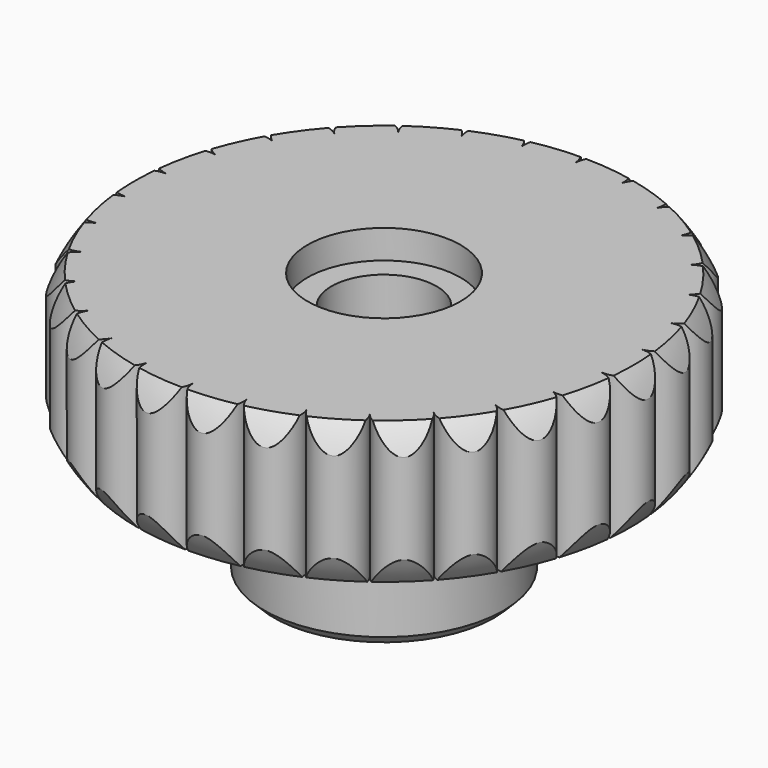
from build123d import *

# Parameters (mm, degrees)
F0_R     = 12.5
F1_DEPTH = 13
F2_R     = 5.5
F3_DEPTH = 15
F4_R     = 8
F5_DEPTH = 3
F6_R     = 5
F7_SIZE  = 1


with BuildPart() as f1:
    # F0 (on Top) → F1 (new body)
    with BuildSketch(Plane.XY):
        Circle(F0_R)
        Polygon((3.6661742094, 6.35), (7.3323484187, 0), (3.6661742094, -6.35), (-3.6661742094, -6.35), (-7.3323484187, 0), (-3.6661742094, 6.35), align=None, mode=Mode.SUBTRACT)
    extrude(amount=F1_DEPTH)

    # F2 (on face) → F3 (join)
    with BuildSketch(Plane.XY.offset(13)):
        with BuildLine():
            ThreePointArc((24.8630473842, -2.6132115817), (24.9657383689, -1.3083989061), (25, 0))
            ThreePointArc((25, 0), (24.9657383689, 1.3083989061), (24.8630473842, 2.6132115817))
            ThreePointArc((24.8630473842, 2.6132115817), (24.4536900183, 5.1977922704), (23.7764129074, 7.7254248594))
            ThreePointArc((23.7764129074, 7.7254248594), (22.8386364411, 10.1684160769), (21.6506350946, 12.5))
            ThreePointArc((21.6506350946, 12.5), (20.2254248594, 14.6946313073), (18.5786206369, 16.728265159))
            ThreePointArc((18.5786206369, 16.728265159), (16.728265159, 18.5786206369), (14.6946313073, 20.2254248594))
            ThreePointArc((14.6946313073, 20.2254248594), (12.5, 21.6506350946), (10.1684160769, 22.8386364411))
            ThreePointArc((10.1684160769, 22.8386364411), (7.7254248594, 23.7764129074), (5.1977922704, 24.4536900183))
            ThreePointArc((5.1977922704, 24.4536900183), (2.6132115817, 24.8630473842), (0, 25))
            ThreePointArc((0, 25), (-2.6132115817, 24.8630473842), (-5.1977922704, 24.4536900183))
            ThreePointArc((-5.1977922704, 24.4536900183), (-7.7254248594, 23.7764129074), (-10.1684160769, 22.8386364411))
            ThreePointArc((-10.1684160769, 22.8386364411), (-12.5, 21.6506350946), (-14.6946313073, 20.2254248594))
            ThreePointArc((-14.6946313073, 20.2254248594), (-16.728265159, 18.5786206369), (-18.5786206369, 16.728265159))
            ThreePointArc((-18.5786206369, 16.728265159), (-20.2254248594, 14.6946313073), (-21.6506350946, 12.5))
            ThreePointArc((-21.6506350946, 12.5), (-22.8386364411, 10.1684160769), (-23.7764129074, 7.7254248594))
            ThreePointArc((-23.7764129074, 7.7254248594), (-24.4536900183, 5.1977922704), (-24.8630473842, 2.6132115817))
            ThreePointArc((-24.8630473842, 2.6132115817), (-25, 0), (-24.8630473842, -2.6132115817))
            ThreePointArc((-24.8630473842, -2.6132115817), (-24.4536900183, -5.1977922704), (-23.7764129074, -7.7254248594))
            ThreePointArc((-23.7764129074, -7.7254248594), (-22.8386364411, -10.1684160769), (-21.6506350946, -12.5))
            ThreePointArc((-21.6506350946, -12.5), (-20.2254248594, -14.6946313073), (-18.5786206369, -16.728265159))
            ThreePointArc((-18.5786206369, -16.728265159), (-16.728265159, -18.5786206369), (-14.6946313073, -20.2254248594))
            ThreePointArc((-14.6946313073, -20.2254248594), (-12.5, -21.6506350946), (-10.1684160769, -22.8386364411))
            ThreePointArc((-10.1684160769, -22.8386364411), (-7.7254248594, -23.7764129074), (-5.1977922704, -24.4536900183))
            ThreePointArc((-5.1977922704, -24.4536900183), (-2.6132115817, -24.8630473842), (0, -25))
            ThreePointArc((0, -25), (2.6132115817, -24.8630473842), (5.1977922704, -24.4536900183))
            ThreePointArc((5.1977922704, -24.4536900183), (7.7254248594, -23.7764129074), (10.1684160769, -22.8386364411))
            ThreePointArc((10.1684160769, -22.8386364411), (12.5, -21.6506350946), (14.6946313073, -20.2254248594))
            ThreePointArc((14.6946313073, -20.2254248594), (16.728265159, -18.5786206369), (18.5786206369, -16.728265159))
            ThreePointArc((18.5786206369, -16.728265159), (20.2254248594, -14.6946313073), (21.6506350946, -12.5))
            ThreePointArc((21.6506350946, -12.5), (22.8386364411, -10.1684160769), (23.7764129074, -7.7254248594))
            ThreePointArc((23.7764129074, -7.7254248594), (24.4536900183, -5.1977922704), (24.8630473842, -2.6132115817))
        make_face()
        Circle(F2_R, mode=Mode.SUBTRACT)
        with BuildLine():
            ThreePointArc((24.8630473842, 2.6132115817), (24.9657383689, 1.3083989061), (25, 0))
            ThreePointArc((25, 0), (24.9657383689, -1.3083989061), (24.8630473842, -2.6132115817))
            ThreePointArc((24.8630473842, -2.6132115817), (27.6167978121, 0), (24.8630473842, 2.6132115817))
        make_face()
        with BuildLine():
            ThreePointArc((23.7764129074, 7.7254248594), (24.4536900183, 5.1977922704), (24.8630473842, 2.6132115817))
            ThreePointArc((24.8630473842, 2.6132115817), (27.0133045199, 5.7418551281), (23.7764129074, 7.7254248594))
        make_face()
        with BuildLine():
            ThreePointArc((23.7764129074, -7.7254248594), (27.0133045199, -5.7418551281), (24.8630473842, -2.6132115817))
            ThreePointArc((24.8630473842, -2.6132115817), (24.4536900183, -5.1977922704), (23.7764129074, -7.7254248594))
        make_face()
        with BuildLine():
            ThreePointArc((21.6506350946, 12.5), (22.8386364411, 10.1684160769), (23.7764129074, 7.7254248594))
            ThreePointArc((23.7764129074, 7.7254248594), (25.2292001959, 11.2327636346), (21.6506350946, 12.5))
        make_face()
        with BuildLine():
            ThreePointArc((21.6506350946, -12.5), (25.2292001959, -11.2327636346), (23.7764129074, -7.7254248594))
            ThreePointArc((23.7764129074, -7.7254248594), (22.8386364411, -10.1684160769), (21.6506350946, -12.5))
        make_face()
        with BuildLine():
            ThreePointArc((18.5786206369, 16.728265159), (20.2254248594, 14.6946313073), (21.6506350946, 12.5))
            ThreePointArc((21.6506350946, 12.5), (22.3424587602, 16.2327464695), (18.5786206369, 16.728265159))
        make_face()
        with BuildLine():
            ThreePointArc((18.5786206369, -16.728265159), (22.3424587602, -16.2327464695), (21.6506350946, -12.5))
            ThreePointArc((21.6506350946, -12.5), (20.2254248594, -14.6946313073), (18.5786206369, -16.728265159))
        make_face()
        with BuildLine():
            ThreePointArc((14.6946313073, 20.2254248594), (16.728265159, 18.5786206369), (18.5786206369, 16.728265159))
            ThreePointArc((18.5786206369, 16.728265159), (18.4792446657, 20.5232803904), (14.6946313073, 20.2254248594))
        make_face()
        with BuildLine():
            ThreePointArc((14.6946313073, -20.2254248594), (18.4792446657, -20.5232803904), (18.5786206369, -16.728265159))
            ThreePointArc((18.5786206369, -16.728265159), (16.728265159, -18.5786206369), (14.6946313073, -20.2254248594))
        make_face()
        with BuildLine():
            ThreePointArc((10.1684160769, 22.8386364411), (12.5, 21.6506350946), (14.6946313073, 20.2254248594))
            ThreePointArc((14.6946313073, 20.2254248594), (13.8083989061, 23.9168484765), (10.1684160769, 22.8386364411))
        make_face()
        with BuildLine():
            ThreePointArc((10.1684160769, -22.8386364411), (13.8083989061, -23.9168484765), (14.6946313073, -20.2254248594))
            ThreePointArc((14.6946313073, -20.2254248594), (12.5, -21.6506350946), (10.1684160769, -22.8386364411))
        make_face()
        with BuildLine():
            ThreePointArc((5.1977922704, 24.4536900183), (7.7254248594, 23.7764129074), (10.1684160769, 22.8386364411))
            ThreePointArc((10.1684160769, 22.8386364411), (8.5340598542, 26.2651355184), (5.1977922704, 24.4536900183))
        make_face()
        with BuildLine():
            ThreePointArc((5.1977922704, -24.4536900183), (8.5340598542, -26.2651355184), (10.1684160769, -22.8386364411))
            ThreePointArc((10.1684160769, -22.8386364411), (7.7254248594, -23.7764129074), (5.1977922704, -24.4536900183))
        make_face()
        with BuildLine():
            ThreePointArc((0, 25), (2.6132115817, 24.8630473842), (5.1977922704, 24.4536900183))
            ThreePointArc((5.1977922704, 24.4536900183), (2.8867414357, 27.4655101041), (0, 25))
        make_face()
        with BuildLine():
            ThreePointArc((0, -25), (2.8867414357, -27.4655101041), (5.1977922704, -24.4536900183))
            ThreePointArc((5.1977922704, -24.4536900183), (2.6132115817, -24.8630473842), (0, -25))
        make_face()
        with BuildLine():
            ThreePointArc((-5.1977922704, 24.4536900183), (-2.6132115817, 24.8630473842), (0, 25))
            ThreePointArc((0, 25), (-2.8867414357, 27.4655101041), (-5.1977922704, 24.4536900183))
        make_face()
        with BuildLine():
            ThreePointArc((-5.1977922704, -24.4536900183), (-2.8867414357, -27.4655101041), (0, -25))
            ThreePointArc((0, -25), (-2.6132115817, -24.8630473842), (-5.1977922704, -24.4536900183))
        make_face()
        with BuildLine():
            ThreePointArc((-10.1684160769, 22.8386364411), (-7.7254248594, 23.7764129074), (-5.1977922704, 24.4536900183))
            ThreePointArc((-5.1977922704, 24.4536900183), (-8.5340598542, 26.2651355184), (-10.1684160769, 22.8386364411))
        make_face()
        with BuildLine():
            ThreePointArc((-10.1684160769, -22.8386364411), (-8.5340598542, -26.2651355184), (-5.1977922704, -24.4536900183))
            ThreePointArc((-5.1977922704, -24.4536900183), (-7.7254248594, -23.7764129074), (-10.1684160769, -22.8386364411))
        make_face()
        with BuildLine():
            ThreePointArc((-14.6946313073, 20.2254248594), (-12.5, 21.6506350946), (-10.1684160769, 22.8386364411))
            ThreePointArc((-10.1684160769, 22.8386364411), (-13.8083989061, 23.9168484765), (-14.6946313073, 20.2254248594))
        make_face()
        with BuildLine():
            ThreePointArc((-14.6946313073, -20.2254248594), (-13.8083989061, -23.9168484765), (-10.1684160769, -22.8386364411))
            ThreePointArc((-10.1684160769, -22.8386364411), (-12.5, -21.6506350946), (-14.6946313073, -20.2254248594))
        make_face()
        with BuildLine():
            ThreePointArc((-18.5786206369, 16.728265159), (-16.728265159, 18.5786206369), (-14.6946313073, 20.2254248594))
            ThreePointArc((-14.6946313073, 20.2254248594), (-18.4792446657, 20.5232803904), (-18.5786206369, 16.728265159))
        make_face()
        with BuildLine():
            ThreePointArc((-18.5786206369, -16.728265159), (-18.4792446657, -20.5232803904), (-14.6946313073, -20.2254248594))
            ThreePointArc((-14.6946313073, -20.2254248594), (-16.728265159, -18.5786206369), (-18.5786206369, -16.728265159))
        make_face()
        with BuildLine():
            ThreePointArc((-21.6506350946, 12.5), (-20.2254248594, 14.6946313073), (-18.5786206369, 16.728265159))
            ThreePointArc((-18.5786206369, 16.728265159), (-22.3424587602, 16.2327464695), (-21.6506350946, 12.5))
        make_face()
        with BuildLine():
            ThreePointArc((-21.6506350946, -12.5), (-22.3424587602, -16.2327464695), (-18.5786206369, -16.728265159))
            ThreePointArc((-18.5786206369, -16.728265159), (-20.2254248594, -14.6946313073), (-21.6506350946, -12.5))
        make_face()
        with BuildLine():
            ThreePointArc((-23.7764129074, 7.7254248594), (-22.8386364411, 10.1684160769), (-21.6506350946, 12.5))
            ThreePointArc((-21.6506350946, 12.5), (-25.2292001959, 11.2327636346), (-23.7764129074, 7.7254248594))
        make_face()
        with BuildLine():
            ThreePointArc((-23.7764129074, -7.7254248594), (-25.2292001959, -11.2327636346), (-21.6506350946, -12.5))
            ThreePointArc((-21.6506350946, -12.5), (-22.8386364411, -10.1684160769), (-23.7764129074, -7.7254248594))
        make_face()
        with BuildLine():
            ThreePointArc((-24.8630473842, 2.6132115817), (-24.4536900183, 5.1977922704), (-23.7764129074, 7.7254248594))
            ThreePointArc((-23.7764129074, 7.7254248594), (-27.0133045199, 5.7418551281), (-24.8630473842, 2.6132115817))
        make_face()
        with BuildLine():
            ThreePointArc((-24.8630473842, -2.6132115817), (-27.0133045199, -5.7418551281), (-23.7764129074, -7.7254248594))
            ThreePointArc((-23.7764129074, -7.7254248594), (-24.4536900183, -5.1977922704), (-24.8630473842, -2.6132115817))
        make_face()
        with BuildLine():
            ThreePointArc((-24.8630473842, -2.6132115817), (-25, 0), (-24.8630473842, 2.6132115817))
            ThreePointArc((-24.8630473842, 2.6132115817), (-27.6167978121, 0), (-24.8630473842, -2.6132115817))
        make_face()
    extrude(amount=F3_DEPTH)

    # F4 (on face) → F5 (cut)
    with BuildSketch(Plane.XY.offset(28)):
        Circle(F4_R)
    extrude(amount=-F5_DEPTH, mode=Mode.SUBTRACT)

    # F6
    f6_edges = [f1.edges().sort_by_distance(p)[0] for p in [
        (-12.5, 0, 13),
    ]]
    fillet(f6_edges, radius=F6_R)

    # F7
    f7_edges = [f1.edges().sort_by_distance(p)[0] for p in [
        (-12.5, 0, 0),
    ]]
    chamfer(f7_edges, length=F7_SIZE)


with BuildPart() as f9:
    # F8 (on Front) → F9 (revolve)
    with BuildSketch(Plane.XZ):
        with BuildLine():
            ThreePointArc((23.5565956682, 30.4140788503), (28.5869395323, 20.6720810384), (23.5565956682, 10.9300832264))
            Line((23.5565956682, 10.9300832264), (54.8448456004, 10.9300832264))
            Line((54.8448456004, 10.9300832264), (54.8448456004, 30.4140788503))
            Line((54.8448456004, 30.4140788503), (23.5565956682, 30.4140788503))
        make_face()
    revolve(axis=Axis((0, 0, 25), (0, 0, -1)))


with BuildPart() as f1_1:
    add(f1.part)

    # F10: cut F9
    add(f9.part, mode=Mode.SUBTRACT)


solid = f1_1.part
